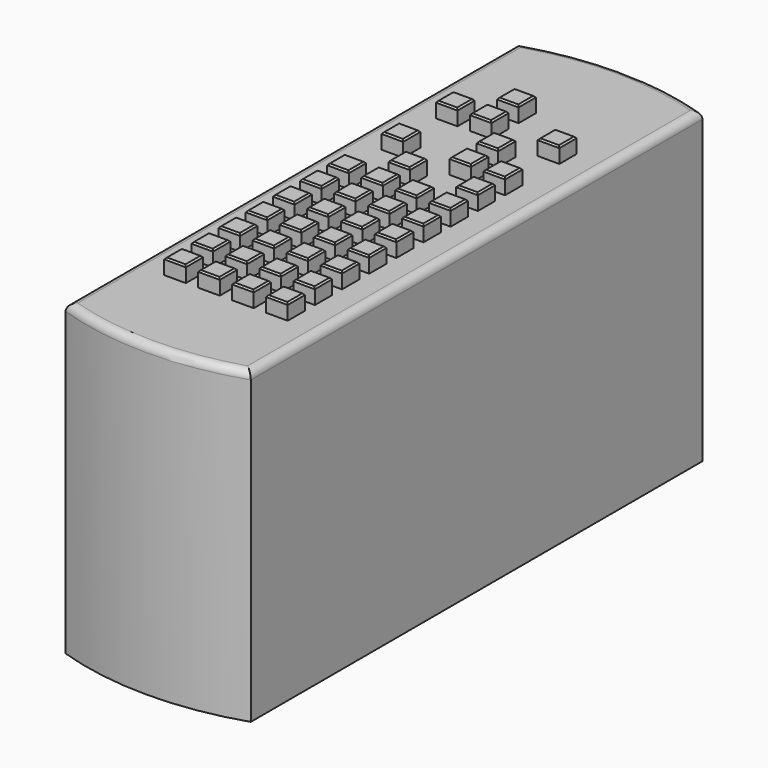
from build123d import *

# Parameters (mm, degrees)
PAD_DEPTH    = 20
SKETCH001_W  = 1.4
SKETCH001_H  = 1.4
PAD001_DEPTH = 1
CHAMFER_SIZE = 0.1
FILLET_R     = 0.5


with BuildPart() as part:
    # Sketch → Pad (new body)
    with BuildSketch(Plane.XY):
        with BuildLine():
            Line((-6, 18.29105), (-6, -18.29105))
            ThreePointArc((-6, -18.29105), (0, -19.25), (6, -18.29105))
            Line((6, 18.29105), (6, -18.29105))
            ThreePointArc((6, 18.29105), (0, 19.25), (-6, 18.29105))
        make_face()
    extrude(amount=PAD_DEPTH)

    # Sketch001 (on Face6 of Pad) → Pad001 (join)
    with BuildSketch(Plane.XY.offset(20)):
        with Locations((-3.3, -12.1)):
            Rectangle(SKETCH001_W, SKETCH001_H)
        with Locations((-1.1, -12.1)):
            Rectangle(SKETCH001_W, SKETCH001_H)
        with Locations((1.1, -12.1)):
            Rectangle(SKETCH001_W, SKETCH001_H)
        with Locations((3.3, -12.1)):
            Rectangle(SKETCH001_W, SKETCH001_H)
        with Locations((-3.3, -9.9)):
            Rectangle(SKETCH001_W, SKETCH001_H)
        with Locations((-1.1, -9.9)):
            Rectangle(SKETCH001_W, SKETCH001_H)
        with Locations((1.1, -9.9)):
            Rectangle(SKETCH001_W, SKETCH001_H)
        with Locations((3.3, -9.9)):
            Rectangle(SKETCH001_W, SKETCH001_H)
        with Locations((-3.3, -7.7)):
            Rectangle(SKETCH001_W, SKETCH001_H)
        with Locations((-1.1, -7.7)):
            Rectangle(SKETCH001_W, SKETCH001_H)
        with Locations((1.1, -7.7)):
            Rectangle(SKETCH001_W, SKETCH001_H)
        with Locations((3.3, -7.7)):
            Rectangle(SKETCH001_W, SKETCH001_H)
        with Locations((-3.3, -5.5)):
            Rectangle(SKETCH001_W, SKETCH001_H)
        with Locations((-1.1, -5.5)):
            Rectangle(SKETCH001_W, SKETCH001_H)
        with Locations((1.1, -5.5)):
            Rectangle(SKETCH001_W, SKETCH001_H)
        with Locations((3.3, -5.5)):
            Rectangle(SKETCH001_W, SKETCH001_H)
        with Locations((-3.3, -3.3)):
            Rectangle(SKETCH001_W, SKETCH001_H)
        with Locations((-1.1, -3.3)):
            Rectangle(SKETCH001_W, SKETCH001_H)
        with Locations((1.1, -3.3)):
            Rectangle(SKETCH001_W, SKETCH001_H)
        with Locations((3.3, -3.3)):
            Rectangle(SKETCH001_W, SKETCH001_H)
        with Locations((-3.3, -1.1)):
            Rectangle(SKETCH001_W, SKETCH001_H)
        with Locations((-1.1, -1.1)):
            Rectangle(SKETCH001_W, SKETCH001_H)
        with Locations((1.1, -1.1)):
            Rectangle(SKETCH001_W, SKETCH001_H)
        with Locations((3.3, -1.1)):
            Rectangle(SKETCH001_W, SKETCH001_H)
        with Locations((-3.3, 1.1)):
            Rectangle(SKETCH001_W, SKETCH001_H)
        with Locations((-1.1, 1.1)):
            Rectangle(SKETCH001_W, SKETCH001_H)
        with Locations((1.1, 1.1)):
            Rectangle(SKETCH001_W, SKETCH001_H)
        with Locations((3.3, 1.1)):
            Rectangle(SKETCH001_W, SKETCH001_H)
        with Locations((-1.1, 3.3)):
            Rectangle(SKETCH001_W, SKETCH001_H)
        with Locations((3.3, 3.3)):
            Rectangle(SKETCH001_W, SKETCH001_H)
        with Locations((-3.3, 5.5)):
            Rectangle(SKETCH001_W, SKETCH001_H)
        with Locations((1.1, 5.5)):
            Rectangle(SKETCH001_W, SKETCH001_H)
        with Locations((3.3, 5.5)):
            Rectangle(SKETCH001_W, SKETCH001_H)
        with Locations((1.1, 7.7)):
            Rectangle(SKETCH001_W, SKETCH001_H)
        with Locations((-3.3, 9.9)):
            Rectangle(SKETCH001_W, SKETCH001_H)
        with Locations((-1.1, 9.9)):
            Rectangle(SKETCH001_W, SKETCH001_H)
        with Locations((3.3, 9.9)):
            Rectangle(SKETCH001_W, SKETCH001_H)
        with Locations((-1.1, 12.1)):
            Rectangle(SKETCH001_W, SKETCH001_H)
    extrude(amount=PAD001_DEPTH)

    # Chamfer
    chamfer_edges = [part.edges().sort_by_distance(p)[0] for p in [
        (3.3, -2.6, 21),
        (4, -3.3, 21),
        (3.3, -4, 21),
        (2.6, -3.3, 21),
        (3.3, -0.4, 21),
        (4, -1.1, 21),
        (3.3, -1.8, 21),
        (2.6, -1.1, 21),
        (3.3, -9.2, 21),
        (4, -9.9, 21),
        (3.3, -10.6, 21),
        (2.6, -9.9, 21),
        (1.1, -9.2, 21),
        (1.8, -9.9, 21),
        (1.1, -10.6, 21),
        (0.4, -9.9, 21),
        (-1.1, -9.2, 21),
        (-0.4, -9.9, 21),
        (-1.1, -10.6, 21),
        (-1.8, -9.9, 21),
        (-3.3, -9.2, 21),
        (-2.6, -9.9, 21),
        (-3.3, -10.6, 21),
        (-4, -9.9, 21),
        (1.1, -7, 21),
        (1.8, -7.7, 21),
        (1.1, -8.4, 21),
        (0.4, -7.7, 21),
        (-1.1, -7, 21),
        (-0.4, -7.7, 21),
        (-1.1, -8.4, 21),
        (-1.8, -7.7, 21),
        (-3.3, -2.6, 21),
        (-2.6, -3.3, 21),
        (-3.3, -4, 21),
        (-4, -3.3, 21),
        (3.3, -7, 21),
        (4, -7.7, 21),
        (3.3, -8.4, 21),
        (2.6, -7.7, 21),
        (-3.3, -7, 21),
        (-2.6, -7.7, 21),
        (-3.3, -8.4, 21),
        (-4, -7.7, 21),
        (-1.1, -0.4, 21),
        (-0.4, -1.1, 21),
        (-1.1, -1.8, 21),
        (-1.8, -1.1, 21),
        (1.1, -0.4, 21),
        (1.8, -1.1, 21),
        (1.1, -1.8, 21),
        (0.4, -1.1, 21),
        (1.1, -2.6, 21),
        (1.8, -3.3, 21),
        (1.1, -4, 21),
        (0.4, -3.3, 21),
        (-1.1, -2.6, 21),
        (-0.4, -3.3, 21),
        (-1.1, -4, 21),
        (-1.8, -3.3, 21),
        (1.1, -4.8, 21),
        (1.8, -5.5, 21),
        (1.1, -6.2, 21),
        (0.4, -5.5, 21),
        (-3.3, -4.8, 21),
        (-2.6, -5.5, 21),
        (-3.3, -6.2, 21),
        (-4, -5.5, 21),
        (3.3, 4, 21),
        (4, 3.3, 21),
        (3.3, 2.6, 21),
        (2.6, 3.3, 21),
        (3.3, -4.8, 21),
        (4, -5.5, 21),
        (3.3, -6.2, 21),
        (2.6, -5.5, 21),
        (-1.1, -4.8, 21),
        (-0.4, -5.5, 21),
        (-1.1, -6.2, 21),
        (-1.8, -5.5, 21),
        (-3.3, -0.4, 21),
        (-2.6, -1.1, 21),
        (-3.3, -1.8, 21),
        (-4, -1.1, 21),
        (-1.1, 12.8, 21),
        (-0.4, 12.1, 21),
        (-1.1, 11.4, 21),
        (-1.8, 12.1, 21),
        (-1.1, 10.6, 21),
        (-0.4, 9.9, 21),
        (-1.1, 9.2, 21),
        (-1.8, 9.9, 21),
        (1.1, 1.8, 21),
        (1.8, 1.1, 21),
        (1.1, 0.4, 21),
        (0.4, 1.1, 21),
        (3.3, 1.8, 21),
        (4, 1.1, 21),
        (3.3, 0.4, 21),
        (2.6, 1.1, 21),
        (-1.1, -11.4, 21),
        (-0.4, -12.1, 21),
        (-1.1, -12.8, 21),
        (-1.8, -12.1, 21),
        (3.3, -11.4, 21),
        (4, -12.1, 21),
        (3.3, -12.8, 21),
        (2.6, -12.1, 21),
        (1.1, 8.4, 21),
        (1.8, 7.7, 21),
        (1.1, 7, 21),
        (0.4, 7.7, 21),
        (-3.3, 6.2, 21),
        (-2.6, 5.5, 21),
        (-3.3, 4.8, 21),
        (-4, 5.5, 21),
        (-3.3, -11.4, 21),
        (-2.6, -12.1, 21),
        (-3.3, -12.8, 21),
        (-4, -12.1, 21),
        (-1.1, 1.8, 21),
        (-0.4, 1.1, 21),
        (-1.1, 0.4, 21),
        (-1.8, 1.1, 21),
        (-3.3, 1.8, 21),
        (-2.6, 1.1, 21),
        (-3.3, 0.4, 21),
        (-4, 1.1, 21),
        (-3.3, 10.6, 21),
        (-2.6, 9.9, 21),
        (-3.3, 9.2, 21),
        (-4, 9.9, 21),
        (1.1, 6.2, 21),
        (1.8, 5.5, 21),
        (1.1, 4.8, 21),
        (0.4, 5.5, 21),
        (-1.1, 4, 21),
        (-0.4, 3.3, 21),
        (-1.1, 2.6, 21),
        (-1.8, 3.3, 21),
        (3.3, 10.6, 21),
        (4, 9.9, 21),
        (3.3, 9.2, 21),
        (2.6, 9.9, 21),
        (3.3, 6.2, 21),
        (4, 5.5, 21),
        (3.3, 4.8, 21),
        (2.6, 5.5, 21),
        (1.1, -11.4, 21),
        (1.8, -12.1, 21),
        (1.1, -12.8, 21),
        (0.4, -12.1, 21),
    ]]
    chamfer(chamfer_edges, length=CHAMFER_SIZE)

    # Fillet
    fillet_edges = [part.edges().sort_by_distance(p)[0] for p in [
        (0, -19.25, 20),
        (0, 19.25, 20),
        (6, 0, 20),
        (-6, 0, 20),
    ]]
    fillet(fillet_edges, radius=FILLET_R)


solid = part.part
